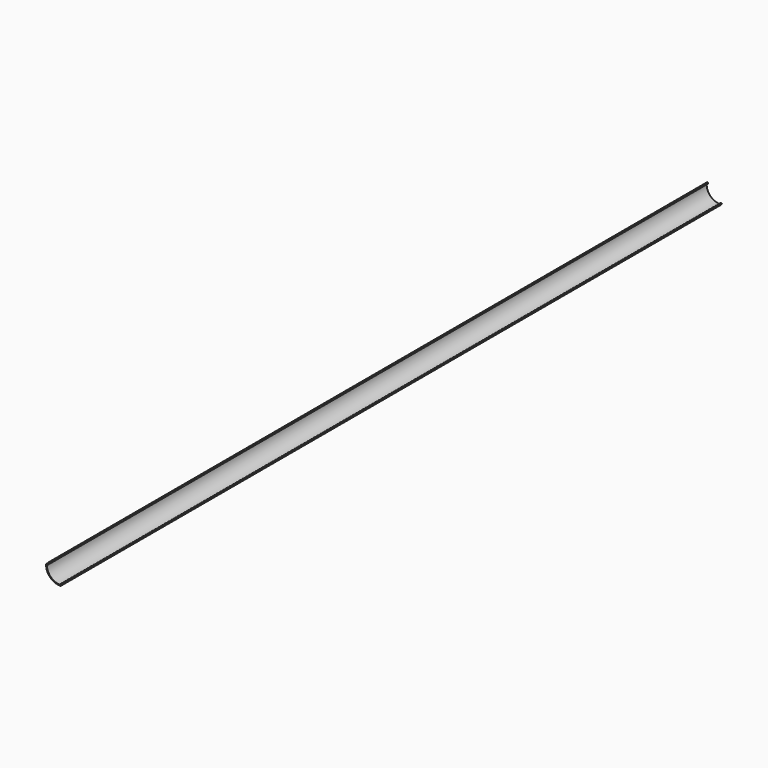
from build123d import *

# Parameters (mm, degrees)
F1_DEPTH = 1000


with BuildPart() as f1:
    # F0 (on Front) → F1 (new body)
    with BuildSketch(Plane.XZ):
        with BuildLine():
            Line((-7.499922, 7.949946), (-7.499963, 8.449908))
            ThreePointArc((-7.499963, 8.449908), (-7.999984, 8.949867), (-8.499963, 8.449867))
            Line((-8.499963, 8.449867), (-8.499922, 7.949863))
            ThreePointArc((-8.499922, 7.949863), (-8.64634, 7.596298), (-8.999881, 7.449822))
            Line((-8.999881, 7.449822), (-9.522787, 7.44978))
            ThreePointArc((-9.522787, 7.44978), (-9.870577, 7.308964), (-10.022487, 6.965876))
            ThreePointArc((-10.022487, 6.965876), (-5.052075, -5.602246), (7.516078, -10.572578))
            ThreePointArc((7.516078, -10.572578), (7.859179, -10.420652), (7.999979, -10.072837))
            Line((7.999979, -10.072837), (7.999979, -9.550117))
            ThreePointArc((7.999979, -9.550117), (8.146426, -9.196564), (8.499979, -9.050117))
            Line((8.499979, -9.050117), (8.999258, -9.050117))
            ThreePointArc((8.999258, -9.050117), (9.500017, -8.550498), (9.000018, -8.050118))
            Line((9.000018, -8.050118), (8.499979, -8.050117))
            ThreePointArc((8.499979, -8.050117), (7.573552, -8.3704), (7.04275, -9.194473))
            ThreePointArc((7.04275, -9.194473), (6.860566, -9.47323), (6.543726, -9.575748))
            ThreePointArc((6.543726, -9.575748), (-4.344975, -4.895133), (-9.025651, 5.993543))
            ThreePointArc((-9.025651, 5.993543), (-8.923127, 6.310394), (-8.644351, 6.492575))
            ThreePointArc((-8.644351, 6.492575), (-7.82019, 7.023414), (-7.499922, 7.949946))
        make_face()
    extrude(amount=F1_DEPTH)


solid = f1.part
